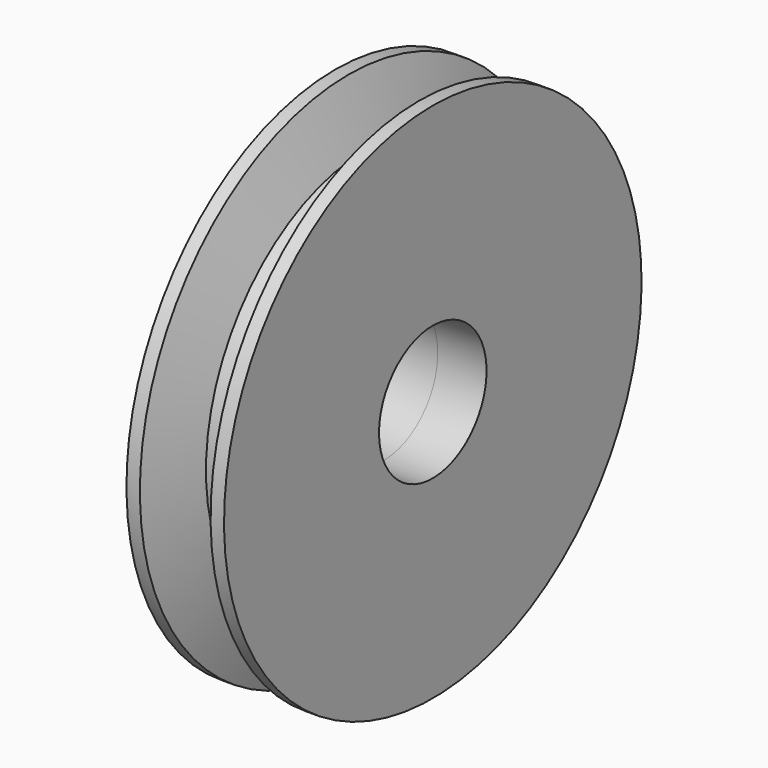
from build123d import *

# Parameters (mm, degrees)
F2_R     = 17.5
F3_DEPTH = 25
F5_SCALE = 0.5


with BuildPart() as f1:
    # F0 (on Front) → F1 (revolve)
    with BuildSketch(Plane.XZ):
        Polygon((0, 37.8452404466), (0, 0), (12.7, 0), (12.7, 52.3875), (4.4460149232, 52.3875), align=None)
        Polygon((0, 52.3875), (0, 37.8452404466), (4.4460149232, 52.3875), align=None)
        Polygon((9.20242, 67.945), (4.4460149232, 52.3875), (12.7, 52.3875), (12.7, 67.945), align=None)
    revolve(axis=Axis((21.4788783342, 0, 0), (1, 0, 0)))

    # F2 (on face) → F3 (cut)
    with BuildSketch(Plane(origin=(0, 0, 0), x_dir=(0, -1, 0), z_dir=(-1, 0, 0))):
        Circle(F2_R)
    extrude(amount=-F3_DEPTH, mode=Mode.SUBTRACT)

    # F4: F1 across plane


with BuildPart() as f1_1:
    add(f1.part)
    add(f1.part.mirror(Plane.YZ))


with BuildPart() as f1_2:
    # F5: moved
    add(f1_1.part.scale(F5_SCALE))


solid = f1_2.part
